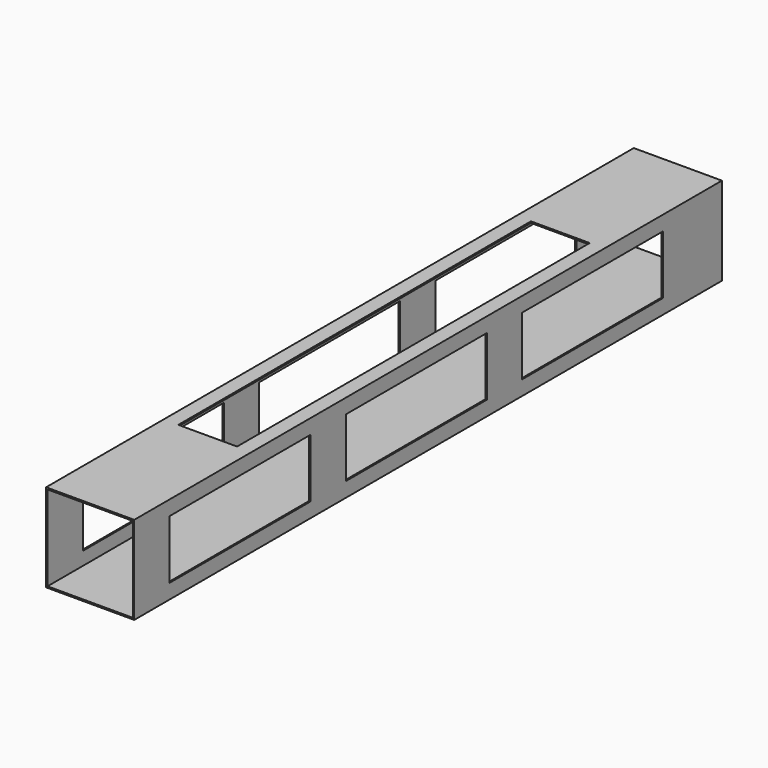
from build123d import *

# Parameters (mm, degrees)
F0_W     = 60
F0_H     = 60
F0_W_2   = 57.999998
F0_H_2   = 58
F1_DEPTH = 500
F2_W     = 120
F2_H     = 40
F3_DEPTH = 150
F4_W     = 40
F4_H     = 300
F5_DEPTH = 25


with BuildPart() as f1:
    # F0 (on Front) → F1 (new body)
    with BuildSketch(Plane.XZ):
        Rectangle(F0_W, F0_H)
        Rectangle(F0_W_2, F0_H_2, mode=Mode.SUBTRACT)
    extrude(amount=F1_DEPTH)

    # F2 (on face) → F3 (cut)
    with BuildSketch(Plane.YZ.offset(30)):
        with Locations((-410, 0)):
            Rectangle(F2_W, F2_H)
        with Locations((-260, 0)):
            Rectangle(F2_W, F2_H)
        with Locations((-110, 0)):
            Rectangle(F2_W, F2_H)
    extrude(amount=-F3_DEPTH, mode=Mode.SUBTRACT)

    # F4 (on face) → F5 (cut)
    with BuildSketch(Plane.XY.offset(30)):
        with Locations((0, -250)):
            Rectangle(F4_W, F4_H)
    extrude(amount=-F5_DEPTH, mode=Mode.SUBTRACT)


solid = f1.part
